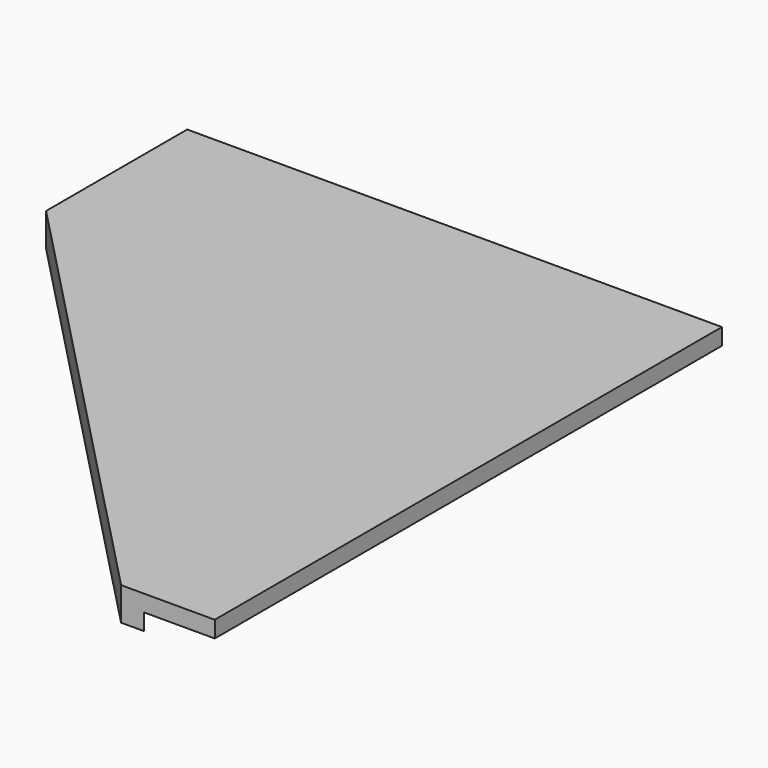
from build123d import *

# Parameters (mm, degrees)
F1_DEPTH = 19.05
F3_DEPTH = 19.05


with BuildPart() as f1:
    # F0 (on Top) → F1 (new body)
    with BuildSketch(Plane.XY):
        Polygon((281.657545, 545.334344), (-334.292455, 545.334344), (-334.292455, 342.134344), (173.707545, -184.915656), (281.657545, -184.915656), align=None)
    extrude(amount=F1_DEPTH)

    # F2 (on face) → F3 (join)
    with BuildSketch(Plane(origin=(0, 0, 0), x_dir=(1, 0, 0), z_dir=(0, 0, -1))):
        Polygon((-334.292455, -342.134344), (-334.292455, -369.5849), (200.165912, 184.915656), (173.707545, 184.915656), align=None)
    extrude(amount=F3_DEPTH)


solid = f1.part
